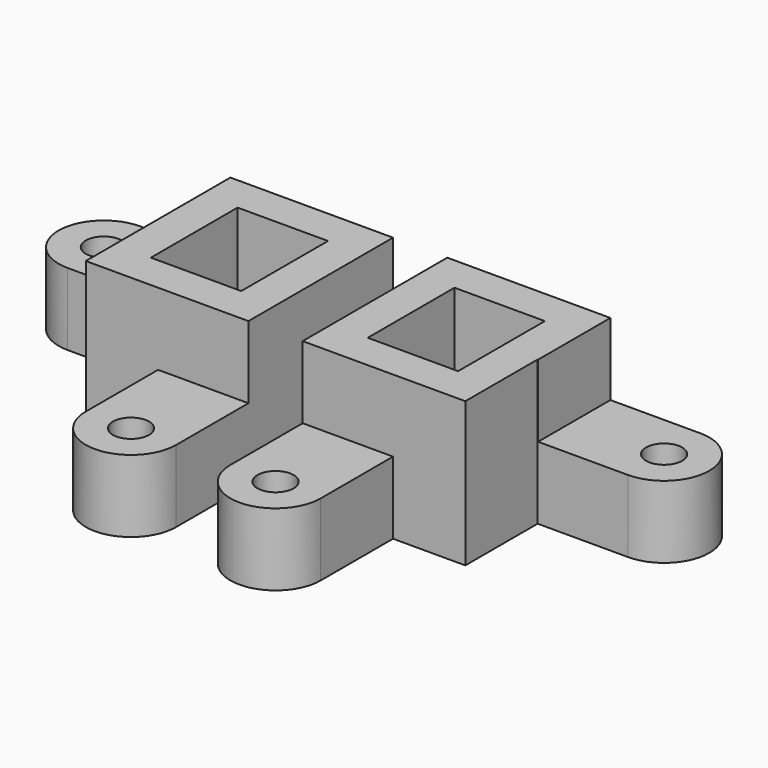
from build123d import *

# Parameters (mm, degrees)
F0_R     = 3.175
F0_W     = 15.875
F0_H     = 19.05
F1_DEPTH = 25.4
F2_R     = 3.175
F2_W     = 36.9337536395
F2_H     = 27.8778783977
F3_DEPTH = 12.7


with BuildPart() as f1:
    # F0 (on Top) → F1 (new body)
    with BuildSketch(Plane.XY):
        with BuildLine():
            Line((-4.7625, -22.2249999642), (-4.7625, -6.3499999642))
            Line((-4.7625, -6.3499999642), (-4.7625, 25.4000000358))
            Line((-4.7625, 25.4000000358), (-33.3375, 25.4000000358))
            Line((-33.3375, 25.4000000358), (-49.2125, 25.4000000358))
            ThreePointArc((-49.2125, 25.4000000358), (-57.15, 17.4625000358), (-49.2125, 9.5250000358))
            Line((-49.2125, 9.5250000358), (-33.3375, 9.5250000358))
            Line((-33.3375, 9.5250000358), (-33.3375, -6.3499999642))
            Line((-33.3375, -6.3499999642), (-20.6375, -6.3499999642))
            Line((-20.6375, -6.3499999642), (-20.6375, -22.2249999642))
            ThreePointArc((-20.6375, -22.2249999642), (-12.7, -30.1624999642), (-4.7625, -22.2249999642))
        make_face()
        with Locations((-12.7, -22.2249999642)):
            Circle(F0_R, mode=Mode.SUBTRACT)
        with Locations((-19.05, 9.5250000358)):
            Rectangle(F0_W, F0_H, mode=Mode.SUBTRACT)
        with Locations((-49.2125, 17.4625000358)):
            Circle(F0_R, mode=Mode.SUBTRACT)
    extrude(amount=F1_DEPTH)


with BuildPart() as f1b:
    # F0 (on Top) → F1, piece 2 (new body)
    with BuildSketch(Plane.XY):
        with BuildLine():
            Line((4.7625, 25.4000000358), (4.7625, -6.3499999642))
            Line((4.7625, -6.3499999642), (4.7625, -22.2249999642))
            ThreePointArc((4.7625, -22.2249999642), (12.7, -30.1624999642), (20.6375, -22.2249999642))
            Line((20.6375, -22.2249999642), (20.6375, -6.3499999642))
            Line((20.6375, -6.3499999642), (33.3375, -6.3499999642))
            Line((33.3375, -6.3499999642), (33.3375, 9.5250000358))
            Line((33.3375, 9.5250000358), (49.2125, 9.5250000358))
            ThreePointArc((49.2125, 9.5250000358), (57.15, 17.4625000358), (49.2125, 25.4000000358))
            Line((49.2125, 25.4000000358), (33.3375, 25.4000000358))
            Line((33.3375, 25.4000000358), (4.7625, 25.4000000358))
        make_face()
        with Locations((12.7, -22.2249999642)):
            Circle(F0_R, mode=Mode.SUBTRACT)
        with Locations((19.05, 9.5250000358)):
            Rectangle(F0_W, F0_H, mode=Mode.SUBTRACT)
        with Locations((49.2125, 17.4625000358)):
            Circle(F0_R, mode=Mode.SUBTRACT)
    extrude(amount=F1_DEPTH)


with BuildPart() as f3_tool:
    # F2 (on face) → F3 (new body)
    with BuildSketch(Plane.XY.offset(25.4)):
        with BuildLine():
            Line((-49.2125, 9.5250000358), (-33.3375, 9.5250000358))
            Line((-33.3375, 9.5250000358), (-33.3375, 25.4000000358))
            Line((-33.3375, 25.4000000358), (-49.2125, 25.4000000358))
            ThreePointArc((-49.2125, 25.4000000358), (-57.15, 17.4625000358), (-49.2125, 9.5250000358))
        make_face()
        with Locations((-49.2125, 17.4625000358)):
            Circle(F2_R, mode=Mode.SUBTRACT)
        with BuildLine():
            Line((-20.6375, -6.3499999642), (-20.6375, -22.2249999642))
            ThreePointArc((-20.6375, -22.2249999642), (-12.7, -30.1624999642), (-4.7625, -22.2249999642))
            Line((-4.7625, -22.2249999642), (-4.7625, -6.3499999642))
            Line((-4.7625, -6.3499999642), (-20.6375, -6.3499999642))
        make_face()
        with Locations((-12.7, -22.2249999642)):
            Circle(F2_R, mode=Mode.SUBTRACT)
        with BuildLine():
            Line((-20.6375, -22.2249999642), (-20.6375, -35.4340933263))
            Line((-20.6375, -35.4340933263), (0, -35.4340933263))
            Line((0, -35.4340933263), (34.3079790473, -35.6928557158))
            Line((34.3079790473, -35.6928557158), (34.3079790473, -6.3499999642))
            Line((34.3079790473, -6.3499999642), (-4.7625, -6.3499999642))
            Line((-4.7625, -6.3499999642), (-4.7625, -22.2249999642))
            ThreePointArc((-4.7625, -22.2249999642), (-12.7, -30.1624999642), (-20.6375, -22.2249999642))
        make_face()
        with Locations((51.8870260566, 22.8151772171)):
            Rectangle(F2_W, F2_H)
    extrude(amount=-F3_DEPTH)


with BuildPart() as f1_1:
    add(f1.part)

    # F3: cut by f3_tool
    add(f3_tool.part, mode=Mode.SUBTRACT)


with BuildPart() as f1b_1:
    add(f1b.part)

    # F3: cut by f3_tool
    add(f3_tool.part, mode=Mode.SUBTRACT)


solid = Compound([f1_1.part, f1b_1.part])
